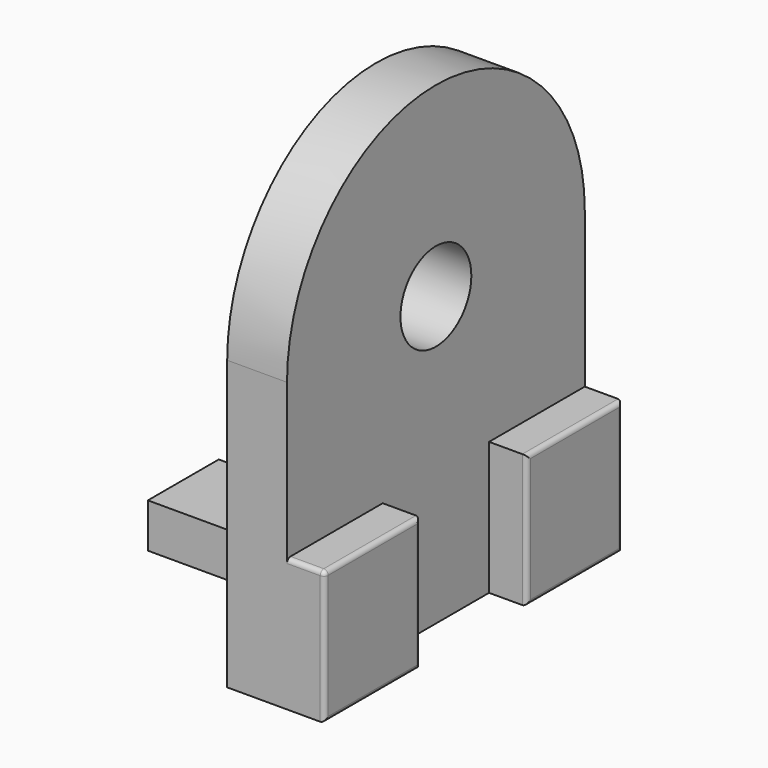
from build123d import *

# Parameters (mm, degrees)
SKETCH039_R     = 1
PAD010_DEPTH    = 1.35
SKETCH041_W     = 2
SKETCH041_H     = 1
PAD014_DEPTH    = 4.35
SKETCH040_W     = 2.7
SKETCH040_H     = 3
PAD015_DEPTH    = 0.85
POCKET015_DEPTH = 5.351
FILLET_R        = 0.1


with BuildPart() as part:
    # Sketch039 → Pad010 (new body)
    with BuildSketch(Plane.YZ.offset(-1.5)):
        with BuildLine():
            ThreePointArc((4.2, 7), (0, 11.2), (-4.2, 7))
            Line((-4.2, 7), (-4.2, 0.5))
            Line((-4.2, 0.5), (4.2, 0.5))
            Line((4.2, 0.5), (4.2, 7))
        make_face()
        with Locations((0, 7)):
            Circle(SKETCH039_R, mode=Mode.SUBTRACT)
    extrude(amount=PAD010_DEPTH)

    # Sketch041 → Pad014 (join)
    with BuildSketch(Plane.YZ.offset(-1.5)):
        with Locations((0, 1)):
            Rectangle(SKETCH041_W, SKETCH041_H)
    extrude(amount=-PAD014_DEPTH)

    # Sketch040 (on Face7 of Pad010) → Pad015 (join)
    with BuildSketch(Plane.YZ.offset(-0.15)):
        with Locations((-2.85, 2)):
            Rectangle(SKETCH040_W, SKETCH040_H)
        with Locations((2.85, 2)):
            Rectangle(SKETCH040_W, SKETCH040_H)
    extrude(amount=PAD015_DEPTH)

    # Sketch055 → Pocket015 (cut, through all)
    with BuildSketch(Plane.YZ.offset(-0.5)):
        Polygon((-2.5, 4.7), (4, 4.7), (4, 4.4), (2.5, 4.4), (2.5, 1.8), (-2.5, 1.8), align=None)
    extrude(amount=-POCKET015_DEPTH, mode=Mode.SUBTRACT)

    # Fillet
    fillet_edges = [part.edges().sort_by_distance(p)[0] for p in [
        (0.275, -4.2, 3.5),
        (0.7, -2.85, 3.5),
        (0.7, -1.5, 2),
        (0.7, -2.85, 0.5),
        (0.7, -4.2, 2),
        (0.7, 2.85, 3.5),
        (0.7, 4.2, 2),
        (0.7, 2.85, 0.5),
        (0.7, 1.5, 2),
    ]]
    fillet(fillet_edges, radius=FILLET_R)


with BuildPart() as part_1:
    # Body010 placement: moved
    add(part.part.moved(Location((0, 0, -0.5))))


solid = part_1.part
